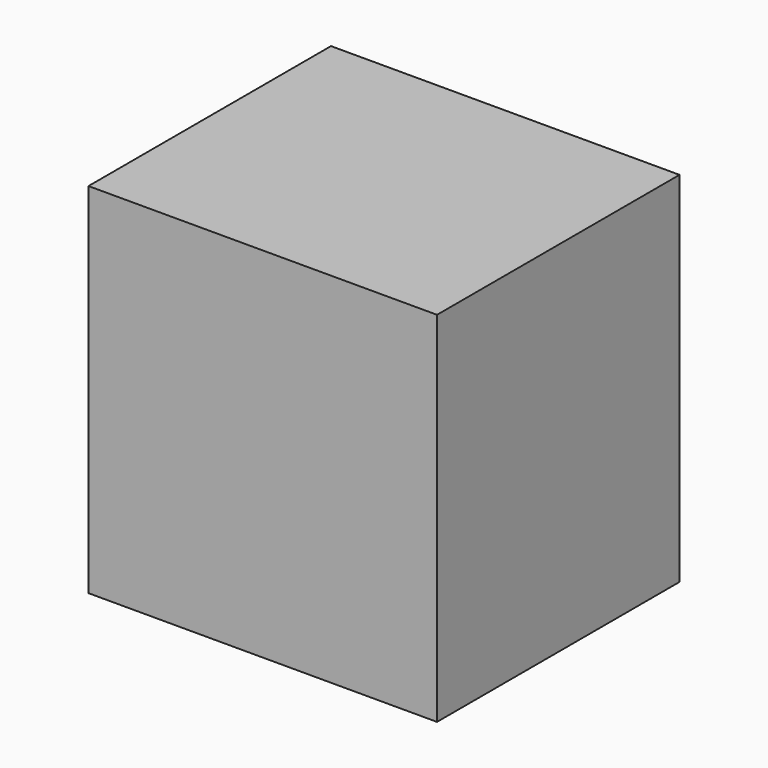
from build123d import *

# Parameters (mm, degrees)
F0_W = 31.75
F0_H = 27.613248


with BuildPart() as f2:
    # F2: sweep along a path in F1
    with BuildLine(Plane.XZ) as f2_path:
        Line((0, 0), (0, 32.649595))
    # F0 (on Top) → F2 (sweep)
    with BuildSketch(Plane.XY):
        Rectangle(F0_W, F0_H)
    sweep(path=f2_path.line)


solid = f2.part
